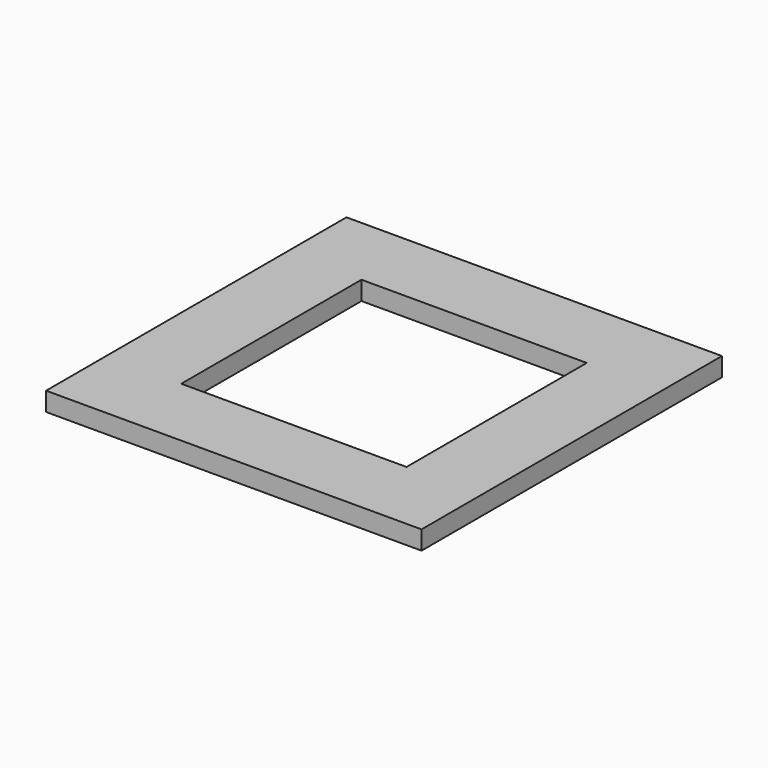
from build123d import *

# Parameters (mm, degrees)
BOX001_W     = 60
BOX001_H     = 60
BOX001_DEPTH = 10
BOX_W        = 100
BOX_H        = 100
BOX_DEPTH    = 5


with BuildPart() as cube001:
    # Box001 → Box001 (new body)
    with BuildSketch(Plane(origin=(-30, -30, 0), x_dir=(1, 0, 0), z_dir=(0, 0, 1))):
        with Locations((30, 30)):
            Rectangle(BOX001_W, BOX001_H)
    extrude(amount=BOX001_DEPTH)


with BuildPart() as cut:
    # Box → Box (new body)
    with BuildSketch(Plane(origin=(-50, -50, 0), x_dir=(1, 0, 0), z_dir=(0, 0, 1))):
        with Locations((50, 50)):
            Rectangle(BOX_W, BOX_H)
    extrude(amount=BOX_DEPTH)

    # Cut: cut Cube001
    add(cube001.part, mode=Mode.SUBTRACT)


solid = cut.part
